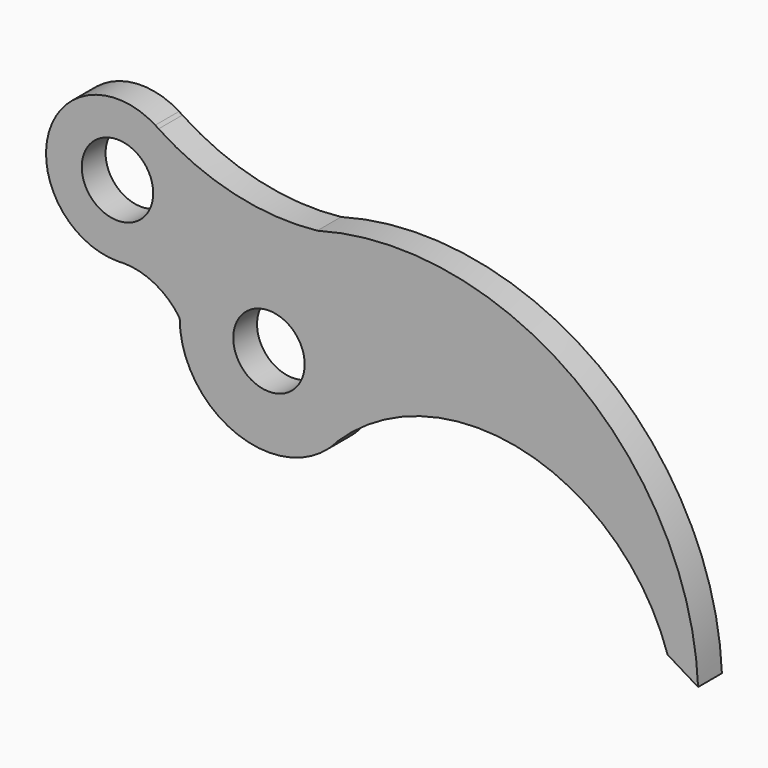
from build123d import *

# Parameters (mm, degrees)
F0_R     = 7.62
F1_DEPTH = 6.35


with BuildPart() as f1:
    # F0 (on Front) → F1 (new body)
    with BuildSketch(Plane.XZ):
        with BuildLine():
            ThreePointArc((-41.671657, -12.142307), (-38.426532, -6.452579), (-37.300447, 0))
            ThreePointArc((-37.300447, 0), (-47.853815, 17.050212), (-67.821154, 15.209385))
            ThreePointArc((-67.821154, 15.209385), (-73.400659, 8.496633), (-75.400447, 0))
            ThreePointArc((-75.400447, 0), (-64.056971, -17.421596), (-43.535671, -14.095531))
            ThreePointArc((-43.535671, -14.095531), (-42.619142, -13.104148), (-41.671657, -12.142307))
        make_face()
        with Locations((-56.350447, 0)):
            Circle(F0_R, mode=Mode.SUBTRACT)
        with BuildLine():
            ThreePointArc((-67.821154, 15.209385), (-47.853815, 17.050212), (-37.300447, 0))
            ThreePointArc((-37.300447, 0), (-38.426532, -6.452579), (-41.671657, -12.142307))
            ThreePointArc((-41.671657, -12.142307), (-1.672546, -1.13618), (28.721721, -29.371838))
            Line((28.721721, -29.371838), (35.234928, -33.326901))
            ThreePointArc((35.234928, -33.326901), (8.905045, 15.937797), (-46.045187, 25.974988))
            ThreePointArc((-46.045187, 25.974988), (-57.446519, 21.630554), (-67.821154, 15.209385))
        make_face()
        with BuildLine():
            ThreePointArc((-75.400447, 0), (-73.400659, 8.496633), (-67.821154, 15.209385))
            ThreePointArc((-67.821154, 15.209385), (-57.446519, 21.630554), (-46.045187, 25.974988))
            ThreePointArc((-46.045187, 25.974988), (-63.675337, 27.10394), (-79.903099, 34.086521))
            ThreePointArc((-79.903099, 34.086521), (-75.150674, 28.645113), (-73.438257, 21.626417))
            ThreePointArc((-73.438257, 21.626417), (-77.487092, 11.281591), (-87.482276, 6.433417))
            ThreePointArc((-87.482276, 6.433417), (-80.641215, 4.719368), (-75.400447, 0))
        make_face()
        with BuildLine():
            ThreePointArc((-43.535671, -14.095531), (-42.569017, -13.151984), (-41.671657, -12.142307))
            ThreePointArc((-41.671657, -12.142307), (-42.619142, -13.104148), (-43.535671, -14.095531))
        make_face()
        with BuildLine():
            ThreePointArc((-88.678257, 6.386417), (-88.080748, 6.422171), (-87.482276, 6.433417))
            ThreePointArc((-87.482276, 6.433417), (-77.487092, 11.281591), (-73.438257, 21.626417))
            ThreePointArc((-73.438257, 21.626417), (-75.150674, 28.645113), (-79.903099, 34.086521))
            ThreePointArc((-79.903099, 34.086521), (-80.257792, 34.319731), (-80.610564, 34.555837))
            ThreePointArc((-80.610564, 34.555837), (-103.329229, 25.82244), (-88.678257, 6.386417))
        make_face()
        with Locations((-88.678257, 21.626417)):
            Circle(F0_R, mode=Mode.SUBTRACT)
        with BuildLine():
            ThreePointArc((-88.678257, 6.386417), (-88.079805, 6.398171), (-87.482276, 6.433417))
            ThreePointArc((-87.482276, 6.433417), (-88.080748, 6.422171), (-88.678257, 6.386417))
        make_face()
        with BuildLine():
            ThreePointArc((-80.610564, 34.555837), (-80.257792, 34.319731), (-79.903099, 34.086521))
            ThreePointArc((-79.903099, 34.086521), (-80.253563, 34.326107), (-80.610564, 34.555837))
        make_face()
    extrude(amount=F1_DEPTH)


solid = f1.part
